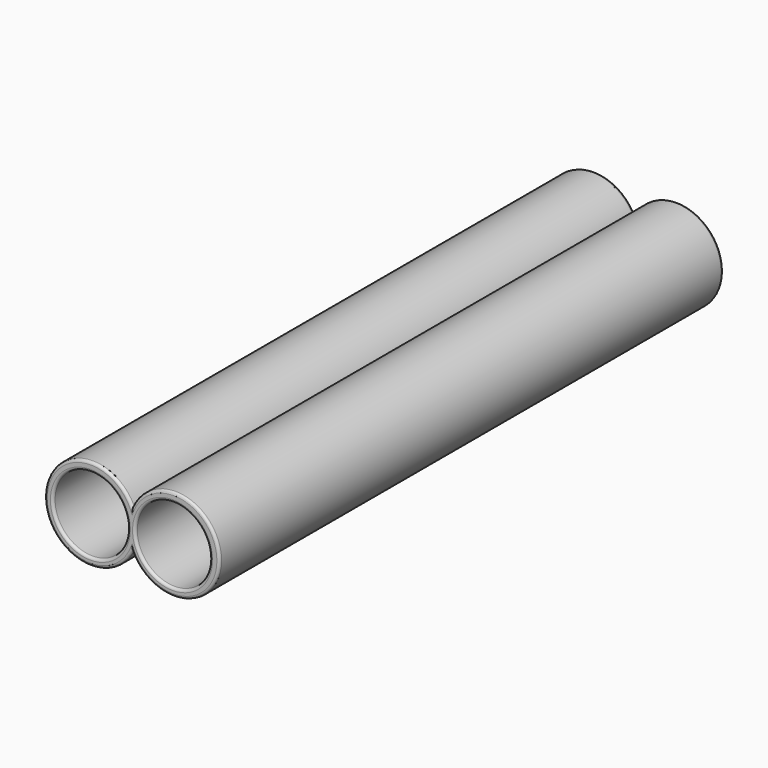
from build123d import *

# Parameters (mm, degrees)
F1_DEPTH = 609.6
F2_R     = 36.195
F3_DEPTH = 609.6
F4_R     = 2.54


with BuildPart() as f1:
    # F0 (on Front) → F1 (new body)
    with BuildSketch(Plane.XZ):
        with BuildLine():
            ThreePointArc((0, 0), (84.610926, 19.05), (0, 38.1))
            ThreePointArc((0, 38.1), (-84.610926, 19.05), (0, 0))
        make_face()
    extrude(amount=F1_DEPTH)

    # F2 (on Front) → F3 (cut)
    with BuildSketch(Plane.XZ):
        with Locations((-40.394932, 18.436662)):
            Circle(F2_R)
        with Locations((39.152017, 18.436662)):
            Circle(F2_R)
    extrude(amount=F3_DEPTH, mode=Mode.SUBTRACT)

    # F4
    f4_edges = [f1.edges().sort_by_distance(p)[0] for p in [
        (-76.589932, -609.6, 18.436662),
        (2.957017, -609.6, 18.436662),
        (2.957017, 0, 18.436662),
        (-76.589932, 0, 18.436662),
        (84.610926, 0, 19.05),
        (-84.610926, 0, 19.05),
        (84.610926, -609.6, 19.05),
        (-84.610926, -609.6, 19.05),
    ]]
    fillet(f4_edges, radius=F4_R)


solid = f1.part
